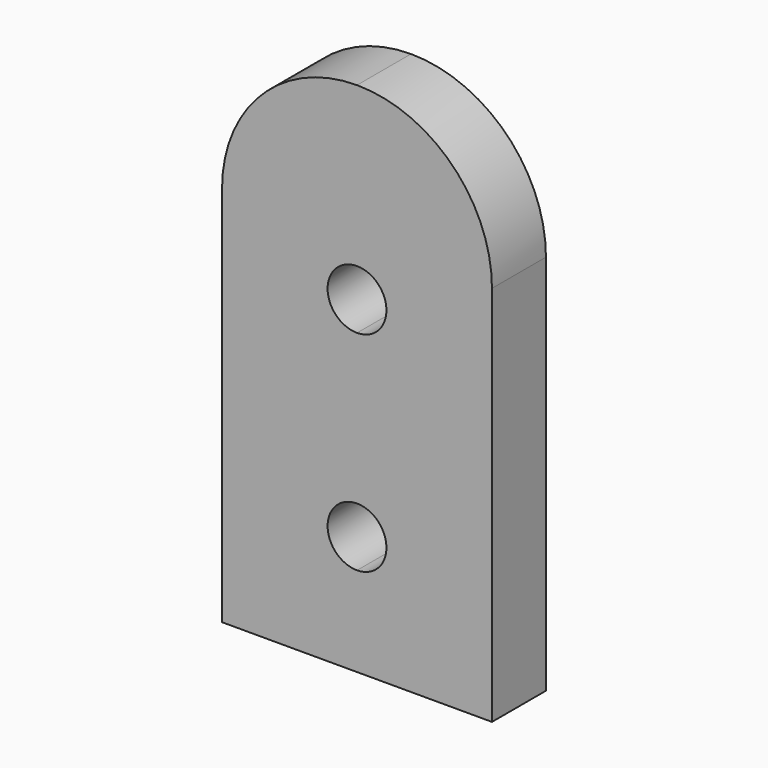
from build123d import *

# Parameters (mm, degrees)
F1_DEPTH = 6.35


with BuildPart() as f1:
    # F0 (on Front) → F1 (new body)
    with BuildSketch(Plane.XZ):
        with BuildLine():
            Line((-44.09069, 35.921024), (-44.09069, 0))
            Line((-44.09069, 0), (-31.39069, 0))
            Line((-31.39069, 0), (-31.39069, 8.43))
            ThreePointArc((-31.39069, 8.43), (-34.15929, 11.1986), (-31.39069, 13.9672))
            Line((-31.39069, 13.9672), (-31.39069, 28.095836))
            ThreePointArc((-31.39069, 28.095836), (-34.15929, 30.864436), (-31.39069, 33.633036))
            Line((-31.39069, 33.633036), (-31.39069, 48.621024))
            ThreePointArc((-31.39069, 48.621024), (-40.370946, 44.901281), (-44.09069, 35.921024))
        make_face()
        with BuildLine():
            Line((-31.39069, 8.43), (-31.39069, 0))
            Line((-31.39069, 0), (-18.69069, 0))
            Line((-18.69069, 0), (-18.69069, 35.921024))
            ThreePointArc((-18.69069, 35.921024), (-22.410433, 44.901281), (-31.39069, 48.621024))
            Line((-31.39069, 48.621024), (-31.39069, 33.633036))
            ThreePointArc((-31.39069, 33.633036), (-29.432994, 32.822132), (-28.62209, 30.864436))
            ThreePointArc((-28.62209, 30.864436), (-29.432994, 28.90674), (-31.39069, 28.095836))
            Line((-31.39069, 28.095836), (-31.39069, 13.9672))
            ThreePointArc((-31.39069, 13.9672), (-29.432994, 13.156296), (-28.62209, 11.1986))
            ThreePointArc((-28.62209, 11.1986), (-29.432994, 9.240904), (-31.39069, 8.43))
        make_face()
    extrude(amount=F1_DEPTH)


solid = f1.part
